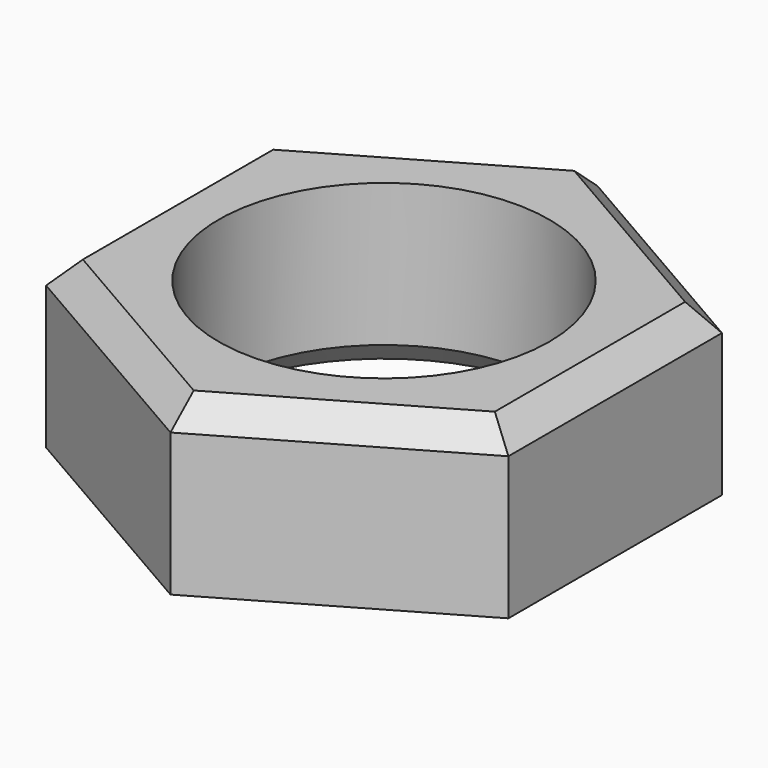
from build123d import *

# Parameters (mm, degrees)
F0_R     = 5.0038
F1_DEPTH = 5.08
F2_SIZE  = 0.762
F3_SIZE  = 0.762


with BuildPart() as f1:
    # F0 (on Top) → F1 (new body)
    with BuildSketch(Plane.XY):
        Polygon((0, 8.0772), (-6.99506, 4.0386), (-6.99506, -4.0386), (0, -8.0772), (6.99506, -4.0386), (6.99506, 4.0386), align=None)
        Circle(F0_R, mode=Mode.SUBTRACT)
    extrude(amount=F1_DEPTH)

    # F2
    f2_edges = [f1.edges().sort_by_distance(p)[0] for p in [
        (-3.49753, 6.0579, 5.08),
        (-6.99506, 0, 5.08),
        (-3.49753, -6.0579, 5.08),
        (3.49753, -6.0579, 5.08),
        (6.99506, 0, 5.08),
        (3.49753, 6.0579, 5.08),
    ]]
    chamfer(f2_edges, length=F2_SIZE)

    # F3
    f3_edges = [f1.edges().sort_by_distance(p)[0] for p in [
        (-5.0038, 0, 0),
    ]]
    chamfer(f3_edges, length=F3_SIZE)


solid = f1.part
